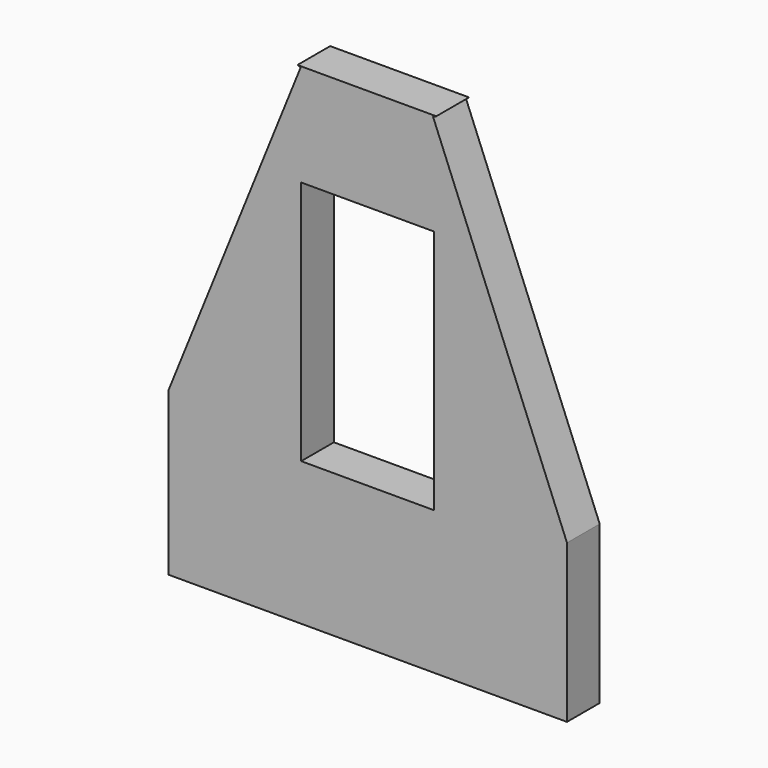
from build123d import *

# Parameters (mm, degrees)
BOX012_W               = 16
BOX012_H               = 4
BOX012_DEPTH           = 43
BOX012_PLACEMENT_ANGLE = 22
BOX011_W               = 16
BOX011_H               = 4
BOX011_DEPTH           = 43
BOX011_PLACEMENT_ANGLE = 22
BOX008_W               = 13
BOX008_H               = 4
BOX008_DEPTH           = 34
BOX009_W               = 13
BOX009_H               = 4
BOX009_DEPTH           = 34
BOX010_W               = 13
BOX010_H               = 4
BOX010_DEPTH           = 10
BOX007_W               = 39
BOX007_H               = 4
BOX007_DEPTH           = 14


with BuildPart() as obj1:
    # Box012 → Box012 (new body)
    with BuildSketch(Plane.XY):
        with Locations((8, 2)):
            Rectangle(BOX012_W, BOX012_H)
    extrude(amount=BOX012_DEPTH)


with BuildPart() as obj1_1:
    # Box012 placement: moved
    add(obj1.part.moved(Location((42, 0, 8))).rotate(Axis((42, 0, 8), (0, -1, 0)), BOX012_PLACEMENT_ANGLE))


with BuildPart() as fusion008:
    # Box011 → Box011 (new body)
    with BuildSketch(Plane.XY):
        with Locations((8, 2)):
            Rectangle(BOX011_W, BOX011_H)
    extrude(amount=BOX011_DEPTH)


with BuildPart() as fusion008_1:
    # Box011 placement: moved
    add(fusion008.part.moved(Location((-18, 0, 14))).rotate(Axis((-18, 0, 14), (0, 1, 0)), BOX011_PLACEMENT_ANGLE))

    # Fusion008: union obj1
    add(obj1_1.part)


with BuildPart() as obj2:
    # Box008 → Box008 (new body)
    with BuildSketch(Plane.XY.offset(14)):
        with Locations((6.5, 2)):
            Rectangle(BOX008_W, BOX008_H)
    extrude(amount=BOX008_DEPTH)


with BuildPart() as obj3:
    # Box009 → Box009 (new body)
    with BuildSketch(Plane(origin=(26, 0, 14), x_dir=(1, 0, 0), z_dir=(0, 0, 1))):
        with Locations((6.5, 2)):
            Rectangle(BOX009_W, BOX009_H)
    extrude(amount=BOX009_DEPTH)


with BuildPart() as obj4:
    # Box010 → Box010 (new body)
    with BuildSketch(Plane(origin=(13, 0, 38), x_dir=(1, 0, 0), z_dir=(0, 0, 1))):
        with Locations((6.5, 2)):
            Rectangle(BOX010_W, BOX010_H)
    extrude(amount=BOX010_DEPTH)


with BuildPart() as cut003:
    # Box007 → Box007 (new body)
    with BuildSketch(Plane.XY):
        with Locations((19.5, 2)):
            Rectangle(BOX007_W, BOX007_H)
    extrude(amount=BOX007_DEPTH)

    # Fusion007: union obj2, obj3, obj4
    add(obj2.part)
    add(obj3.part)
    add(obj4.part)

    # Cut003: cut Fusion008
    add(fusion008_1.part, mode=Mode.SUBTRACT)


with BuildPart() as cut003_1:
    # Cut003 placement: moved
    add(cut003.part.moved(Location((21, 8, -7))))


solid = cut003_1.part
